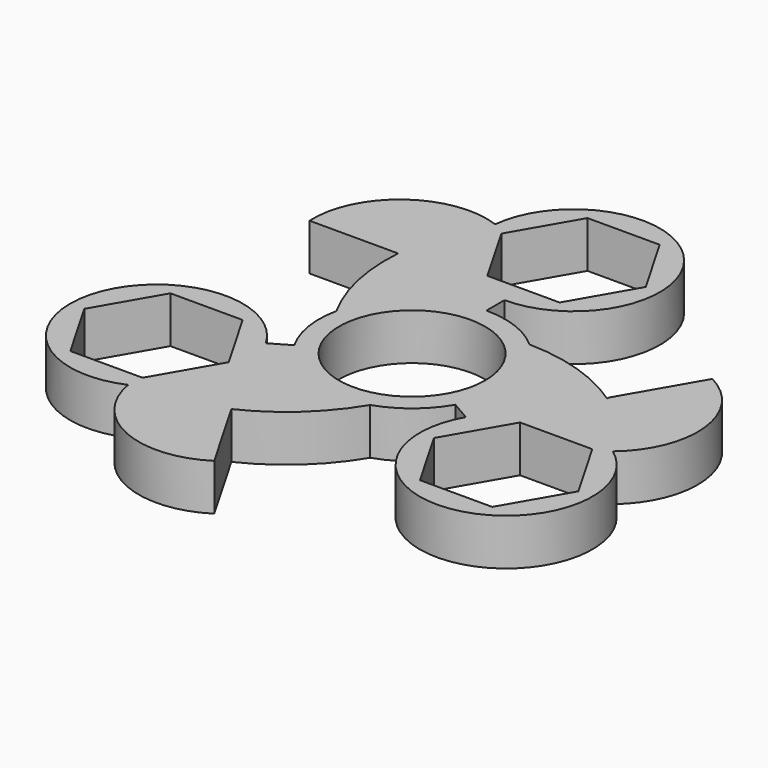
from build123d import *

# Parameters (mm, degrees)
F0_R     = 11
F1_DEPTH = 7
F3_DEPTH = 25


with BuildPart() as f1:
    # F0 (on Top) → F1 (new body)
    with BuildSketch(Plane.XY):
        with BuildLine():
            ThreePointArc((-7.74528, -24.322292), (-0.888747, -19.704747), (4.347186, -13.307967))
            ThreePointArc((4.347186, -13.307967), (8.819044, -10.873108), (12.124356, -7))
            Line((12.124356, -7), (15.057621, -8.693521))
            ThreePointArc((15.057621, -8.693521), (28.99745, -27.91396), (33.992432, -4.702018))
            ThreePointArc((33.992432, -4.702018), (38.625506, 6.792291), (31.605888, 17.005492))
            Line((31.605888, 17.005492), (25.062695, 5.67235))
            Line((25.062695, 5.67235), (25.062695, 5.366495))
            ThreePointArc((25.062695, 5.366495), (17.582241, 9.059312), (9.351444, 10.418756))
            ThreePointArc((9.351444, 10.418756), (5.006866, 13.07407), (0, 14))
            Line((0, 14), (0, 17.387043))
            ThreePointArc((0, 17.387043), (9.675474, 39.069509), (-12.924149, 31.789318))
            ThreePointArc((-12.924149, 31.789318), (-25.19505, 30.054524), (-30.530132, 18.868756))
            Line((-30.530132, 18.868756), (-17.443746, 18.868756))
            Line((-17.443746, 18.868756), (-17.191083, 18.868756))
            ThreePointArc((-17.191083, 18.868756), (-16.620438, 10.62205), (-13.69863, 2.88921))
            ThreePointArc((-13.69863, 2.88921), (-13.825909, -2.200962), (-12.124356, -7))
            Line((-12.124356, -7), (-15.057621, -8.693521))
            ThreePointArc((-15.057621, -8.693521), (-38.672924, -11.155548), (-21.068283, -27.0873))
            ThreePointArc((-21.068283, -27.0873), (-13.430456, -36.846815), (-1.075755, -35.874248))
            Line((-1.075755, -35.874248), (-7.618949, -24.541105))
            Line((-7.618949, -24.541105), (-7.74528, -24.322292))
        make_face()
        Circle(F0_R, mode=Mode.SUBTRACT)
    extrude(amount=F1_DEPTH)

    # F2 (on face) → F3 (cut)
    with BuildSketch(Plane.XY.offset(7)):
        Polygon((5.435753, 39.802043), (-5.435753, 39.802043), (-10.871506, 30.387043), (-5.435753, 20.972043), (5.435753, 20.972043), (10.871506, 30.387043), align=None)
        Polygon((-37.187457, -15.193521), (-31.751704, -24.608521), (-20.880198, -24.608521), (-15.444446, -15.193521), (-20.880198, -5.778521), (-31.751704, -5.778521), align=None)
        Polygon((31.751704, -24.608521), (37.187457, -15.193521), (31.751704, -5.778521), (20.880198, -5.778521), (15.444446, -15.193521), (20.880198, -24.608521), align=None)
    extrude(amount=-F3_DEPTH, mode=Mode.SUBTRACT)


solid = f1.part
